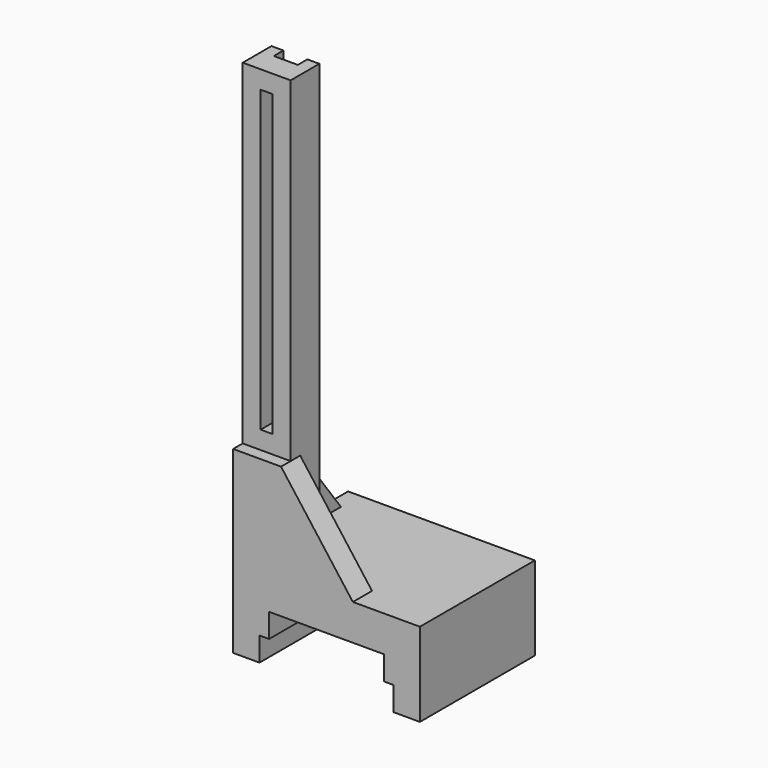
from build123d import *

# Parameters (mm, degrees)
F1_DEPTH  = 38.1
F2_W      = 71.12
F2_H      = 27.39084
F3_DEPTH  = 50.8
F4_W      = 25.4
F4_H      = 19.05
F5_DEPTH  = 228.6
F6_W      = 25.4
F6_H      = 50.8
F7_DEPTH  = 12.7
F9_DEPTH  = 6.35
F10_W     = 12.7
F10_H     = 165.1
F11_DEPTH = 6.35
F12_W     = 6.35
F12_H     = 158.75
F13_DEPTH = 25.4
F14_W     = 12.7
F14_H     = 25.4
F14_H_2   = 6.35
F15_DEPTH = 6.35


with BuildPart() as f1:
    # F0 (on Front) → F1 (new body, symmetric)
    with BuildSketch(Plane.XZ):
        Polygon((30.48, -22.225), (49.53, -22.225), (49.53, 22.225), (-49.53, 22.225), (-49.53, -22.225), (-30.48, -22.225), (-30.48, 3.175), (30.48, 3.175), align=None)
    extrude(amount=F1_DEPTH, both=True)

    # F2 (on Front) → F3 (cut, symmetric)
    with BuildSketch(Plane.XZ):
        with Locations((0, -23.22042)):
            Rectangle(F2_W, F2_H)
    extrude(amount=F3_DEPTH, both=True, mode=Mode.SUBTRACT)

    # F4 (on face) → F5 (join)
    with BuildSketch(Plane.XY.offset(22.225)):
        with Locations((-36.83, -22.225)):
            Rectangle(F4_W, F4_H)
    extrude(amount=F5_DEPTH)

    # F6 (on face) → F7 (join)
    with BuildSketch(Plane.XZ.offset(38.1)):
        with Locations((-36.83, 47.625)):
            Rectangle(F6_W, F6_H)
        Polygon((-24.13, 73.025), (-24.13, 22.225), (13.97, 22.225), align=None)
    extrude(amount=-F7_DEPTH)

    # F8 (on face) → F9 (join)
    with BuildSketch(Plane(origin=(-49.53, 0, 0), x_dir=(0, -1, 0), z_dir=(-1, 0, 0))):
        Polygon((-25.4, 22.225), (12.7, 22.225), (12.7, 73.025), align=None)
    extrude(amount=-F9_DEPTH)

    # F10 (on face) → F11 (cut)
    with BuildSketch(Plane(origin=(0, -12.7, 0), x_dir=(-1, 0, 0), z_dir=(0, 1, 0))):
        with Locations((36.83, 161.925)):
            Rectangle(F10_W, F10_H)
    extrude(amount=-F11_DEPTH, mode=Mode.SUBTRACT)

    # F12 (on face) → F13 (cut)
    with BuildSketch(Plane(origin=(0, -19.05, 0), x_dir=(-1, 0, 0), z_dir=(0, 1, 0))):
        with Locations((36.83, 161.925)):
            Rectangle(F12_W, F12_H)
    extrude(amount=-F13_DEPTH, mode=Mode.SUBTRACT)

    # F14 (on face) → F15 (cut)
    with BuildSketch(Plane(origin=(0, -12.7, 0), x_dir=(-1, 0, 0), z_dir=(0, 1, 0))):
        with Locations((36.83, 250.825)):
            Rectangle(F14_W, F14_H)
        with Locations((36.83, 250.825)):
            Rectangle(F14_W, F14_H)
        with Locations((36.83, 241.3)):
            Rectangle(F14_W, F14_H_2)
    extrude(amount=-F15_DEPTH, mode=Mode.SUBTRACT)


solid = f1.part
